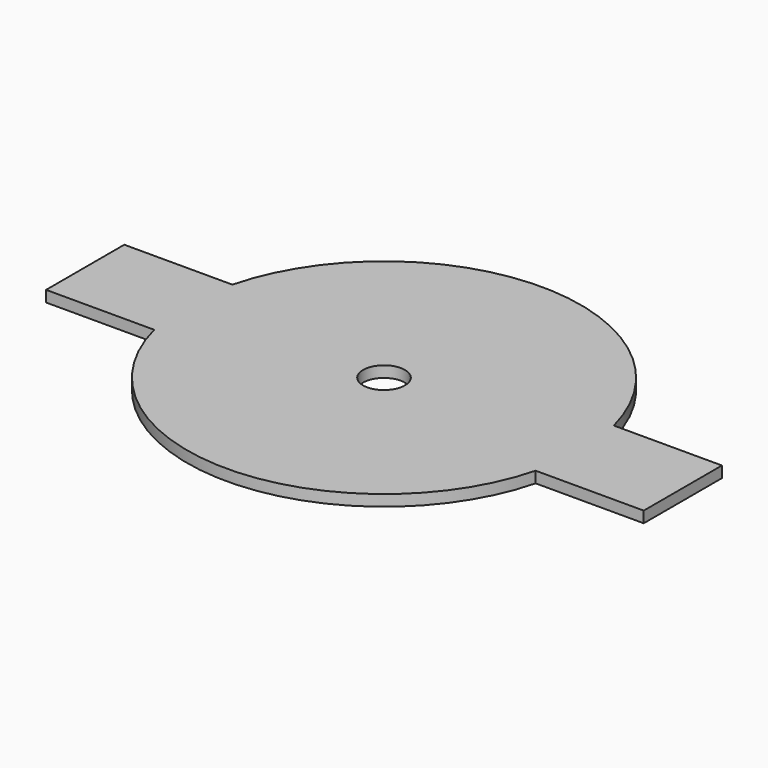
from build123d import *

# Parameters (mm, degrees)
F0_R     = 3.75
F1_DEPTH = 2


with BuildPart() as f1:
    # F0 (on Top) → F1 (new body)
    with BuildSketch(Plane.XY):
        with BuildLine():
            Line((-53.5, -8.75), (-34.146742, -8.75))
            ThreePointArc((-34.146742, -8.75), (0, -35.25), (34.146742, -8.75))
            Line((34.146742, -8.75), (53.5, -8.75))
            Line((53.5, -8.75), (53.5, 8.75))
            Line((53.5, 8.75), (34.146742, 8.75))
            ThreePointArc((34.146742, 8.75), (0, 35.25), (-34.146742, 8.75))
            Line((-34.146742, 8.75), (-53.5, 8.75))
            Line((-53.5, 8.75), (-53.5, -8.75))
        make_face()
        Circle(F0_R, mode=Mode.SUBTRACT)
    extrude(amount=F1_DEPTH)


solid = f1.part
